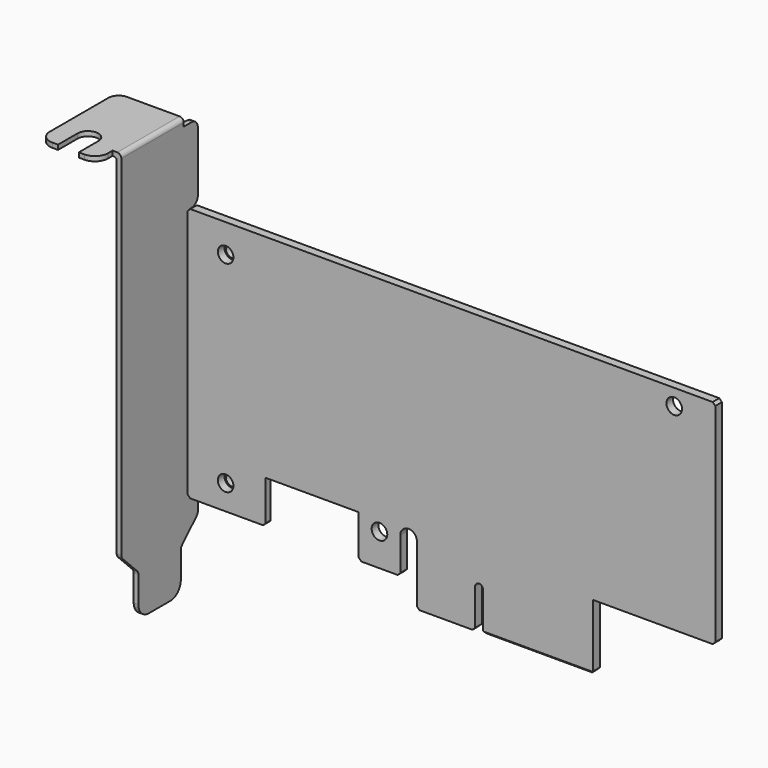
from build123d import *

# Parameters (mm, degrees)
PAD_DEPTH          = 1.6
CHAMFER_SIZE       = 0.5
CHAMFER001_SIZE    = 0.4
SKETCH001_R        = 1.5
POCKET_DEPTH       = 1.601
PAD001_DEPTH       = 0.9
SKETCH003_W        = 1
SKETCH003_H        = 0.9
POCKET001_DEPTH    = 2
POCKET001_FACE16_W = 0.9
POCKET001_FACE16_H = 8
POCKET002_DEPTH    = 0.2
POCKET002_FACE24_W = 0.9
POCKET002_FACE24_H = 8
POCKET003_DEPTH    = 0.2
SKETCH004_W        = 0.9
SKETCH004_H        = 8
PAD002_DEPTH       = 13.5
SKETCH005_W        = 15
SKETCH005_H        = 0.9
PAD003_DEPTH       = 1.5
SKETCH006_W        = 15
SKETCH006_H        = 0.9
PAD004_DEPTH       = 12
SKETCH007_W        = 0.9
SKETCH007_H        = 11.2
PAD005_DEPTH       = 3.6
FILLET_R           = 0.5
FILLET001_R        = 0.8
FILLET002_R        = 1.5
FILLET003_R        = 2
FILLET004_R        = 2.5
FILLET005_R        = 1
POCKET004_DEPTH    = 80.501
SKETCH009_R        = 1.4
PAD006_DEPTH       = 1.3
SKETCH010_R        = 1.25
POCKET005_DEPTH    = 1.301


with BuildPart() as pcb:
    # Sketch → Pad (new body)
    with BuildSketch(Plane.XZ):
        with BuildLine():
            Line((-60.9, 56.6), (-60.9, 7.6))
            Line((-60.9, 7.6), (-45.9, 7.6))
            Line((-45.9, 7.6), (-45.9, 15.8))
            Line((-45.9, 15.8), (-28, 15.8))
            Line((-28, 15.8), (-28, 7.6))
            Line((-28, 7.6), (-20, 7.6))
            Line((-20, 7.6), (-20, 14.500012))
            ThreePointArc((-16.8, 14.5), (-18.399994, 16.1), (-20, 14.500012))
            Line((-16.8, 14.5), (-16.8, 3))
            Line((-16.8, 3), (-5.6, 3))
            Line((-5.6, 3), (-5.6, 10.500003))
            ThreePointArc((-4.1, 10.5), (-4.849999, 11.250003), (-5.6, 10.500003))
            Line((-4.1, 10.5), (-4.1, 3))
            Line((-4.1, 3), (17.1, 3))
            Line((17.1, 3), (17.1, 15.6))
            Line((17.1, 15.6), (40.6, 15.6))
            Line((40.6, 15.6), (40.6, 56.6))
            Line((40.6, 56.6), (-60.9, 56.6))
        make_face()
    extrude(amount=PAD_DEPTH)

    # Chamfer
    chamfer_edges = [pcb.edges().sort_by_distance(p)[0] for p in [
        (-20, -0.8, 7.6),
        (-28, -0.8, 7.6),
        (-16.8, -0.8, 3),
        (-5.6, -0.8, 3),
        (-4.1, -0.8, 3),
        (17.1, -0.8, 3),
        (-45.9, -0.8, 7.6),
        (-60.9, -0.8, 7.6),
        (-60.9, -0.8, 56.6),
        (40.6, -0.8, 56.6),
        (40.6, -0.8, 15.6),
    ]]
    chamfer(chamfer_edges, length=CHAMFER_SIZE)

    # Chamfer001
    chamfer001_edges = [pcb.edges().sort_by_distance(p)[0] for p in [
        (-45.9, 0, 11.95),
        (6.5, 0, 3),
        (6.5, -1.6, 3),
        (-11.2, 0, 3),
    ]]
    chamfer(chamfer001_edges, length=CHAMFER001_SIZE)

    # Sketch001 (on Face5 of Chamfer) → Pocket (cut, through all)
    with BuildSketch(Plane.XZ.offset(1.6)):
        with Locations((-24, 13.8)):
            Circle(SKETCH001_R)
        with Locations((32.7, 53.5)):
            Circle(SKETCH001_R)
        with Locations((-53.6, 51.1)):
            Circle(SKETCH001_R)
        with Locations((-53.6, 12.4)):
            Circle(SKETCH001_R)
    extrude(amount=-POCKET_DEPTH, mode=Mode.SUBTRACT)


with BuildPart() as bracket001:
    # Sketch002 → Pad001 (new body)
    with BuildSketch(Plane.YZ):
        Polygon((1.1, 3.7), (1.1, 70.6), (-17.3, 70.6), (-17.3, 3.7), (-13.2, -0.4), (-13.2, -8.4), (-3, -8.4), (-3, -0.4), align=None)
    extrude(amount=PAD001_DEPTH)

    # Sketch003 (on Face1 of Pad001) → Pocket001 (cut)
    with BuildSketch(Plane.ZX.offset(1.1)):
        with Locations((55.6, 0.45)):
            Rectangle(SKETCH003_W, SKETCH003_H)
        with Locations((46.6, 0.45)):
            Rectangle(SKETCH003_W, SKETCH003_H)
        with Locations((7.9, 0.45)):
            Rectangle(SKETCH003_W, SKETCH003_H)
        with Locations((16.9, 0.45)):
            Rectangle(SKETCH003_W, SKETCH003_H)
    extrude(amount=-POCKET001_DEPTH, mode=Mode.SUBTRACT)

    # Pocket001 Face16 → Pocket002 (cut)
    with BuildSketch(Plane(origin=(0.45, 1.1, 51.1), x_dir=(1, 0, 0), z_dir=(0, 1, 0))):
        Rectangle(POCKET001_FACE16_W, POCKET001_FACE16_H)
    extrude(amount=-POCKET002_DEPTH, mode=Mode.SUBTRACT)

    # Pocket002 Face24 → Pocket003 (cut)
    with BuildSketch(Plane(origin=(0.45, 1.1, 12.4), x_dir=(1, 0, 0), z_dir=(0, 1, 0))):
        Rectangle(POCKET002_FACE24_W, POCKET002_FACE24_H)
    extrude(amount=-POCKET003_DEPTH, mode=Mode.SUBTRACT)

    # Sketch004 (on Face4 of Pocket003) → Pad002 (join)
    with BuildSketch(Plane.YZ.offset(0.9)):
        with Locations((0.45, 51.1)):
            Rectangle(SKETCH004_W, SKETCH004_H)
        with Locations((0.45, 12.4)):
            Rectangle(SKETCH004_W, SKETCH004_H)
    extrude(amount=PAD002_DEPTH)

    # Sketch005 (on Face10 of Pad002) → Pad003 (join)
    with BuildSketch(Plane(origin=(0, 0, 70.6), x_dir=(0, -1, 0), z_dir=(0, 0, 1))):
        with Locations((9.8, 0.45)):
            Rectangle(SKETCH005_W, SKETCH005_H)
    extrude(amount=PAD003_DEPTH)

    # Sketch006 (on Face11 of Pad003) → Pad004 (join)
    with BuildSketch(Plane(origin=(0, 0, 0), x_dir=(0, 1, 0), z_dir=(-1, 0, 0))):
        with Locations((-9.8, -71.65)):
            Rectangle(SKETCH006_W, SKETCH006_H)
    extrude(amount=PAD004_DEPTH)

    # Sketch007 (on Face43 of Pad004) → Pad005 (join)
    with BuildSketch(Plane(origin=(0, -17.3, 0), x_dir=(0, 0, -1), z_dir=(0, -1, 0))):
        with Locations((-71.65, -6.4)):
            Rectangle(SKETCH007_W, SKETCH007_H)
    extrude(amount=PAD005_DEPTH)

    # Fillet
    fillet_edges = [bracket001.edges().sort_by_distance(p)[0] for p in [
        (0.9, 0, 51.1),
        (0.9, 0, 12.4),
        (0, -9.8, 71.2),
    ]]
    fillet(fillet_edges, radius=FILLET_R)

    # Fillet001
    fillet001_edges = [bracket001.edges().sort_by_distance(p)[0] for p in [
        (0.9, -9.8, 72.1),
        (0, 0.9, 51.1),
        (0, 0.9, 12.4),
    ]]
    fillet(fillet001_edges, radius=FILLET001_R)

    # Fillet002
    fillet002_edges = [bracket001.edges().sort_by_distance(p)[0] for p in [
        (14.4, 0.45, 8.4),
        (14.4, 0.45, 16.4),
        (14.4, 0.45, 47.1),
        (14.4, 0.45, 55.1),
        (0.45, 1.1, 7.4),
        (0.45, 1.1, 17.4),
        (0.45, 1.1, 46.1),
        (0.45, 1.1, 56.1),
        (0.45, 1.1, 70.6),
    ]]
    fillet(fillet002_edges, radius=FILLET002_R)

    # Fillet003
    fillet003_edges = [bracket001.edges().sort_by_distance(p)[0] for p in [
        (-12, -2.3, 71.65),
    ]]
    fillet(fillet003_edges, radius=FILLET003_R)

    # Fillet004
    fillet004_edges = [bracket001.edges().sort_by_distance(p)[0] for p in [
        (-12, -20.9, 71.65),
        (-0.8, -20.9, 71.65),
        (0.45, -3, -8.4),
        (0.45, -13.2, -8.4),
    ]]
    fillet(fillet004_edges, radius=FILLET004_R)

    # Fillet005
    fillet005_edges = [bracket001.edges().sort_by_distance(p)[0] for p in [
        (0.45, 1.1, 3.7),
        (0.45, -3, -0.4),
        (0.45, -17.3, 3.7),
        (0.45, -13.2, -0.4),
    ]]
    fillet(fillet005_edges, radius=FILLET005_R)

    # Sketch008 (on Face54 of Fillet005) → Pocket004 (cut, through all)
    with BuildSketch(Plane(origin=(0, 0, 72.1), x_dir=(0, -1, 0), z_dir=(0, 0, 1))):
        with BuildLine():
            Line((20.9, -4.4), (16.2, -4.4))
            ThreePointArc((16.2, -4.4), (14.2, -6.4), (16.2, -8.4))
            Line((20.9, -8.4), (16.2, -8.4))
            Line((20.9, -4.4), (20.9, -8.4))
        make_face()
    extrude(amount=-POCKET004_DEPTH, mode=Mode.SUBTRACT)

    # Sketch009 (on Face58 of Pocket004) → Pad006 (join)
    with BuildSketch(Plane(origin=(0, 0, 0), x_dir=(0, 0, -1), z_dir=(0, -1, 0))):
        with Locations((-51.1, 8.4)):
            Circle(SKETCH009_R)
        with Locations((-12.4, 8.4)):
            Circle(SKETCH009_R)
    extrude(amount=-PAD006_DEPTH)

    # Sketch010 (on Face79 of Pad006) → Pocket005 (cut, through all)
    with BuildSketch(Plane(origin=(0, 0, 0), x_dir=(0, 0, -1), z_dir=(0, -1, 0))):
        with Locations((-51.1, 8.4)):
            Circle(SKETCH010_R)
        with Locations((-12.4, 8.4)):
            Circle(SKETCH010_R)
    extrude(amount=-POCKET005_DEPTH, mode=Mode.SUBTRACT)


with BuildPart() as bracket001_1:
    # Body001 placement: moved
    add(bracket001.part.moved(Location((-62, 0, 0))))


solid = Compound([pcb.part, bracket001_1.part])
